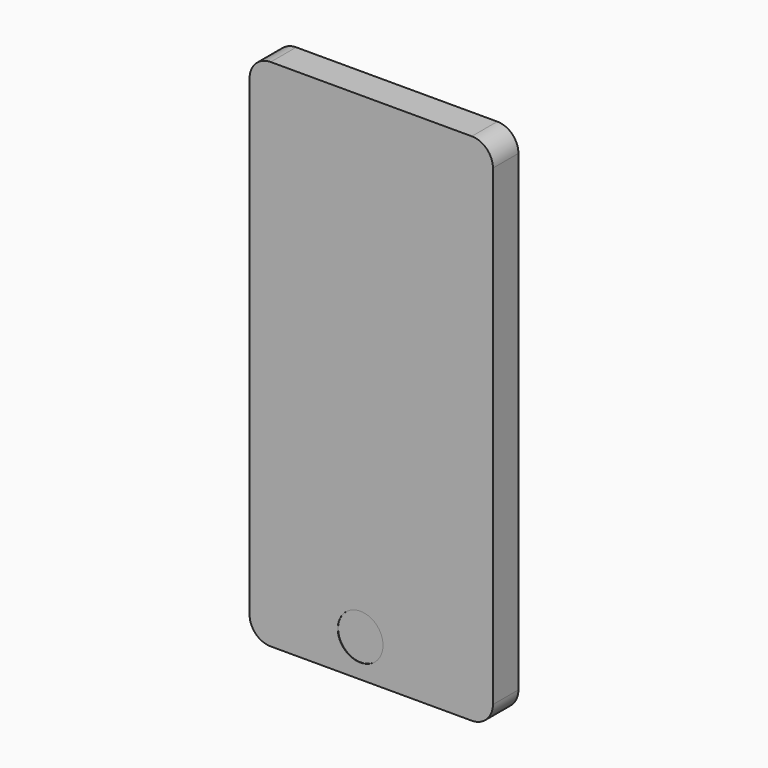
from build123d import *

# Parameters (mm, degrees)
F0_W      = 58.57
F0_H      = 123.84
F1_DEPTH  = 7.67
F2_R      = 5.08
F3_R      = 5.08
F4_R      = 5.08
F5_R      = 5.08
F8_W      = 6.225877
F8_H      = 1.738168
F9_DEPTH  = 12.7
F10_R     = 1.719238
F11_DEPTH = 12.7
F7_R      = 5.45
F12_DEPTH = 0.1


with BuildPart() as f1:
    # F0 (on Front) → F1 (new body)
    with BuildSketch(Plane.XZ):
        with Locations((2.323339, -30.135072)):
            Rectangle(F0_W, F0_H)
    extrude(amount=F1_DEPTH)

    # F2
    f2_edges = [f1.edges().sort_by_distance(p)[0] for p in [
        (-26.961661, -3.835, 31.784928),
    ]]
    fillet(f2_edges, radius=F2_R)

    # F3
    f3_edges = [f1.edges().sort_by_distance(p)[0] for p in [
        (31.608339, -3.835, 31.784928),
    ]]
    fillet(f3_edges, radius=F3_R)

    # F4
    f4_edges = [f1.edges().sort_by_distance(p)[0] for p in [
        (31.608339, -3.835, -92.055072),
    ]]
    fillet(f4_edges, radius=F4_R)

    # F5
    f5_edges = [f1.edges().sort_by_distance(p)[0] for p in [
        (-26.961661, -3.835, -92.055072),
    ]]
    fillet(f5_edges, radius=F5_R)

    # F8 (on face) → F9 (cut)
    with BuildSketch(Plane(origin=(0, 0, -92.055072), x_dir=(1, 0, 0), z_dir=(0, 0, -1))):
        with Locations((-0.13871, 3.651316)):
            Rectangle(F8_W, F8_H)
    extrude(amount=-F9_DEPTH, mode=Mode.SUBTRACT)

    # F10 (on face) → F11 (cut)
    with BuildSketch(Plane(origin=(0, 0, -92.055072), x_dir=(1, 0, 0), z_dir=(0, 0, -1))):
        with Locations((9.932925, 4.50147)):
            Circle(F10_R)
    extrude(amount=-F11_DEPTH, mode=Mode.SUBTRACT)

    # F7 (on face) → F12 (cut)
    with BuildSketch(Plane.XZ.offset(7.67)):
        with Locations((-0.289605, -83.01686)):
            Circle(F7_R)
    extrude(amount=-F12_DEPTH, mode=Mode.SUBTRACT)


solid = f1.part
